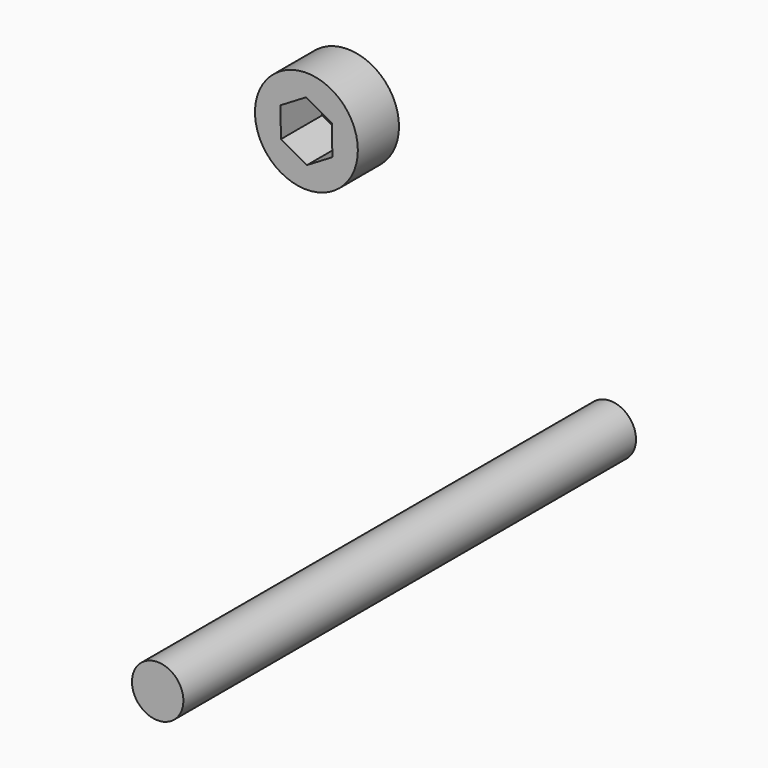
from build123d import *

# Parameters (mm, degrees)
F0_R     = 3.175
F1_DEPTH = 3.175
F2_R     = 1.5875
F3_DEPTH = 34.925


with BuildPart() as f1:
    # F0 (on Front) → F1 (new body)
    with BuildSketch(Plane.XZ):
        with Locations((-60.356679, 51.143057)):
            Circle(F0_R)
        Polygon((-61.959338, 52.033345), (-60.386997, 52.976144), (-58.784338, 52.085857), (-58.75402, 50.25277), (-60.326361, 49.30997), (-61.92902, 50.200258), align=None, mode=Mode.SUBTRACT)
    extrude(amount=F1_DEPTH)


with BuildPart() as f3:
    # F2 (on Front) → F3 (new body)
    with BuildSketch(Plane.XZ):
        with Locations((-44.138659, 38.891412)):
            Circle(F2_R)
    extrude(amount=F3_DEPTH)


solid = Compound([f1.part, f3.part])
